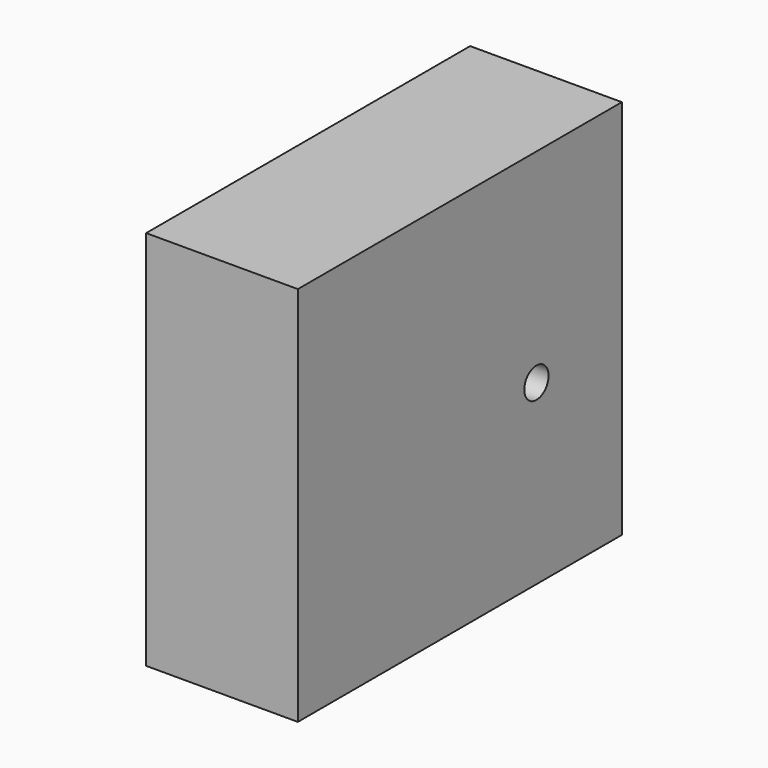
from build123d import *

# Parameters (mm, degrees)
F0_W     = 66.73024
F0_H     = 62.78385
F1_DEPTH = 25
F2_R     = 10.820762
F4_DEPTH = 25
F5_D     = 5


with BuildPart() as f1:
    # F0 (on Right) → F1 (new body)
    with BuildSketch(Plane.YZ):
        with Locations((-23.582063, 2.156687)):
            Rectangle(F0_W, F0_H)
    extrude(amount=F1_DEPTH)

    # F2 (on face) → F4 (join)
    with BuildSketch(Plane.YZ.offset(25)):
        with Locations((-27.518781, 9.579325)):
            Circle(F2_R)
    extrude(amount=-F4_DEPTH)

    # F5 (through all)
    with Locations(Plane.YZ.offset(25)):
        with Locations((-7.812866, 0)):
            Hole(F5_D / 2)


solid = f1.part
